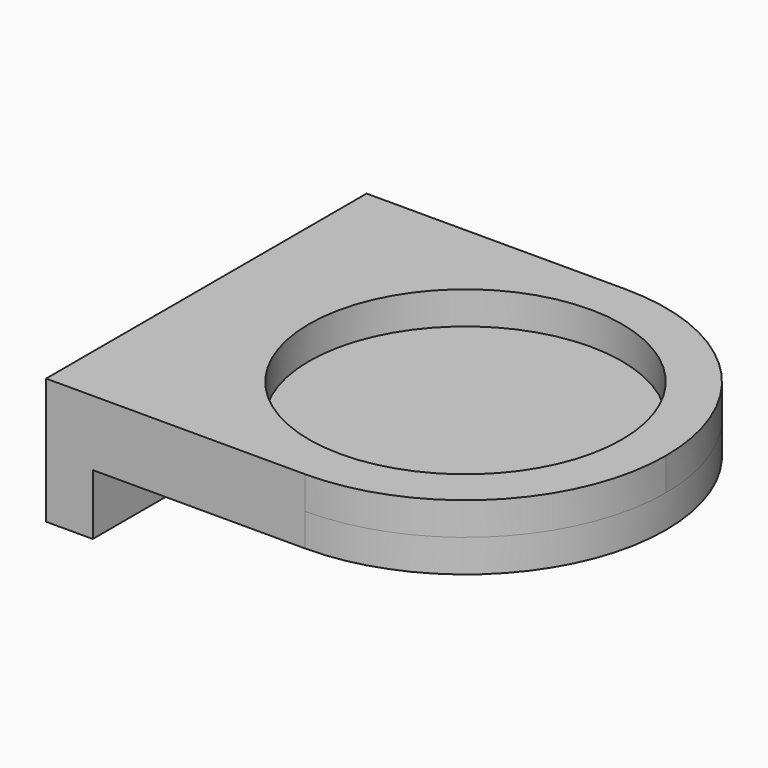
from build123d import *

# Parameters (mm, degrees)
F0_R     = 33.5
F1_DEPTH = 7
F3_DEPTH = 7
F4_W     = 10
F4_H     = 85.8
F5_DEPTH = 13


with BuildPart() as f1:
    # F0 (on Top) → F1 (new body)
    with BuildSketch(Plane.XY):
        with BuildLine():
            ThreePointArc((0, -42.9), (-42.9, 0), (0, 42.9))
            Line((0, 42.9), (-55.5, 42.9))
            Line((-55.5, 42.9), (-55.5, -42.9))
            Line((-55.5, -42.9), (0, -42.9))
        make_face()
        with BuildLine():
            ThreePointArc((0, -42.9), (-42.9, 0), (0, 42.9))
            Line((0, 42.9), (-55.5, 42.9))
            Line((-55.5, 42.9), (-55.5, -42.9))
            Line((-55.5, -42.9), (0, -42.9))
        make_face()
        with BuildLine():
            ThreePointArc((0, -42.9), (30.334881, -30.334881), (42.9, 0))
            ThreePointArc((42.9, 0), (30.334881, 30.334881), (0, 42.9))
            ThreePointArc((0, 42.9), (-42.9, 0), (0, -42.9))
        make_face()
        Circle(F0_R, mode=Mode.SUBTRACT)
    extrude(amount=F1_DEPTH)

    # F2 (on face) → F3 (join)
    with BuildSketch(Plane(origin=(0, 0, 0), x_dir=(1, 0, 0), z_dir=(0, 0, -1))):
        with BuildLine():
            Line((-55.5, -42.9), (0, -42.9))
            ThreePointArc((0, -42.9), (42.9, 0), (0, 42.9))
            Line((0, 42.9), (-55.5, 42.9))
            Line((-55.5, 42.9), (-55.5, -42.9))
        make_face()
    extrude(amount=F3_DEPTH)

    # F4 (on face) → F5 (join)
    with BuildSketch(Plane(origin=(0, 0, -7), x_dir=(1, 0, 0), z_dir=(0, 0, -1))):
        with Locations((-50.5, 0)):
            Rectangle(F4_W, F4_H)
    extrude(amount=F5_DEPTH)


solid = f1.part
